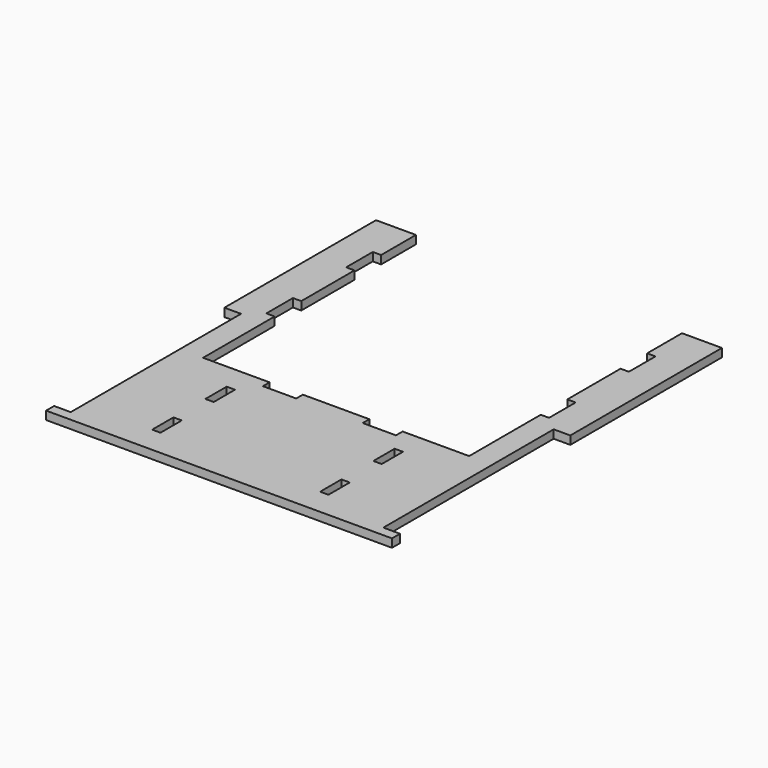
from build123d import *

# Parameters (mm, degrees)
F0_W     = 3.175
F0_H     = 10.16
F1_DEPTH = 3.175


with BuildPart() as f1:
    # F0 (on Top) → F1 (new body)
    with BuildSketch(Plane.XY):
        Polygon((-138.043921, -60.22932), (-138.043921, -64.061883), (-72.003921, -64.061883), (-72.003921, -8.181883), (-77.367083, -8.181883), (-84.703921, -8.181883), (-84.703921, -11.356883), (-97.403921, -11.356883), (-97.403921, -8.181883), (-122.803921, -8.181883), (-122.803921, 25.984842), (-125.978921, 25.984842), (-125.978921, 38.684842), (-122.803921, 38.684842), (-122.803921, 64.084842), (-125.978921, 64.084842), (-125.978921, 76.784842), (-122.803921, 76.784842), (-122.803921, 93.418117), (-138.043921, 93.418117), (-138.043921, 21.05068), (-131.693921, 21.05068), (-131.693921, -60.22932), align=None)
        with Locations((-104.071421, -48.821883)):
            Rectangle(F0_W, F0_H, mode=Mode.SUBTRACT)
        with Locations((-104.071421, -23.421883)):
            Rectangle(F0_W, F0_H, mode=Mode.SUBTRACT)
        Polygon((-72.003921, -8.181883), (-72.003921, -64.061883), (-5.963921, -64.061883), (-5.963921, -60.22932), (-12.313921, -60.22932), (-12.313921, 21.05068), (-5.963921, 21.05068), (-5.963921, 93.418125), (-21.203921, 93.418125), (-21.203921, 76.784842), (-18.028921, 76.784842), (-18.028921, 64.084842), (-21.203921, 64.084842), (-21.203921, 38.684842), (-18.028921, 38.684842), (-18.028921, 25.984842), (-21.203921, 25.984842), (-21.203921, -8.181883), (-26.567083, -8.181883), (-46.603921, -8.181883), (-46.603921, -11.356883), (-59.303921, -11.356883), (-59.303921, -8.181883), align=None)
        with Locations((-39.936421, -48.821883)):
            Rectangle(F0_W, F0_H, mode=Mode.SUBTRACT)
        with Locations((-39.936421, -23.421883)):
            Rectangle(F0_W, F0_H, mode=Mode.SUBTRACT)
    extrude(amount=F1_DEPTH)


solid = f1.part
